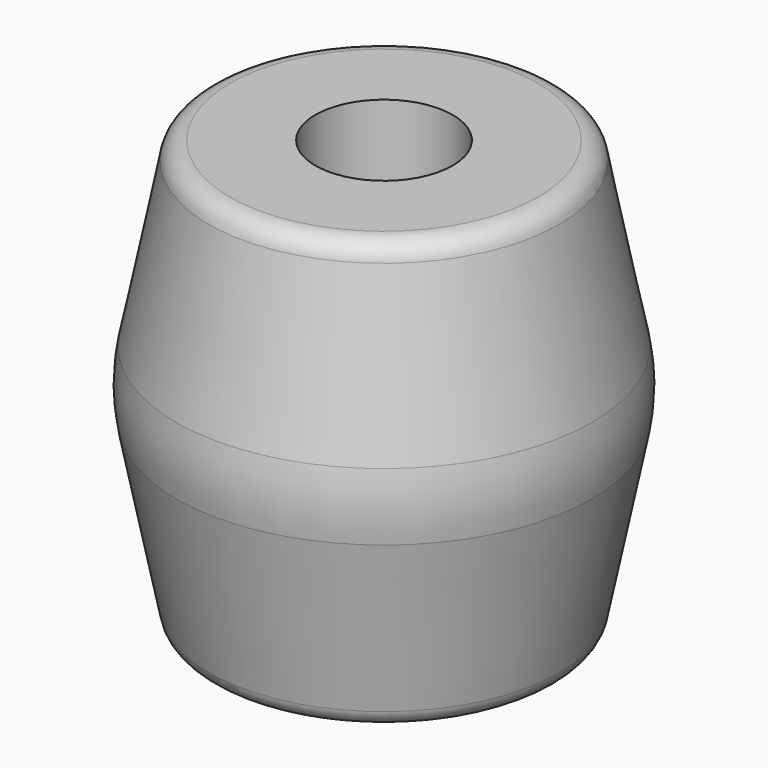
from build123d import *

# Parameters (mm, degrees)
F2_R     = 1.6
F3_DEPTH = 10.001


with BuildPart() as f1:
    # F0 (on Front) → F1 (revolve)
    with BuildSketch(Plane.XZ):
        with BuildLine():
            Line((4.843107, 0.784465), (4.080388, 4.598058))
            ThreePointArc((4.080388, 4.598058), (3.907093, 4.886671), (3.590098, 5))
            Line((3.590098, 5), (0, 5))
            Line((0, 5), (0, -5))
            Line((0, -5), (3.590098, -5))
            ThreePointArc((3.590098, -5), (3.907093, -4.886671), (4.080388, -4.598058))
            Line((4.080388, -4.598058), (4.843107, -0.784465))
            ThreePointArc((4.843107, -0.784465), (4.920784, 0), (4.843107, 0.784465))
        make_face()
    revolve(axis=Axis((0, 0, 0), (0, 0, -1)))

    # F2 (on face) → F3 (cut, through all)
    with BuildSketch(Plane.XY.offset(5)):
        Circle(F2_R)
    extrude(amount=-F3_DEPTH, mode=Mode.SUBTRACT)


solid = f1.part
